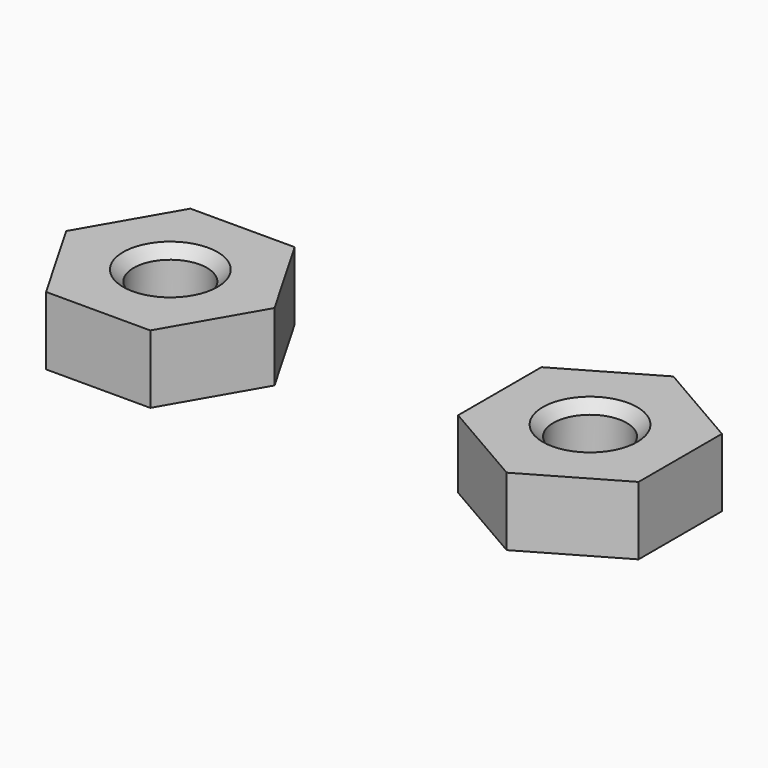
from build123d import *

# Parameters (mm, degrees)
F0_R     = 1.75
F1_DEPTH = 3.25
F2_SIZE  = 0.5
F5_ANGLE = 30


with BuildPart() as f1:
    # F0 (on Top) → F1 (new body)
    with BuildSketch(Plane.XY):
        Polygon((2.482606, 4.3), (-2.482606, 4.3), (-4.965212, 0), (-2.482606, -4.3), (2.482606, -4.3), (4.965212, 0), align=None)
        Circle(F0_R, mode=Mode.SUBTRACT)
    extrude(amount=F1_DEPTH)

    # F2
    f2_edges = [f1.edges().sort_by_distance(p)[0] for p in [
        (-1.75, 0, 3.25),
        (-1.75, 0, 0),
    ]]
    chamfer(f2_edges, length=F2_SIZE)


with BuildPart() as f3_1:
    # F3: copy of F1
    add(f1.part.moved(Location((20, 0, 0))))


with BuildPart() as f3_1_1:
    # F5: moved
    add(f3_1.part.rotate(Axis((20, 0, 6.025538), (0, 0, 1)), F5_ANGLE))


solid = Compound([f1.part, f3_1_1.part])
